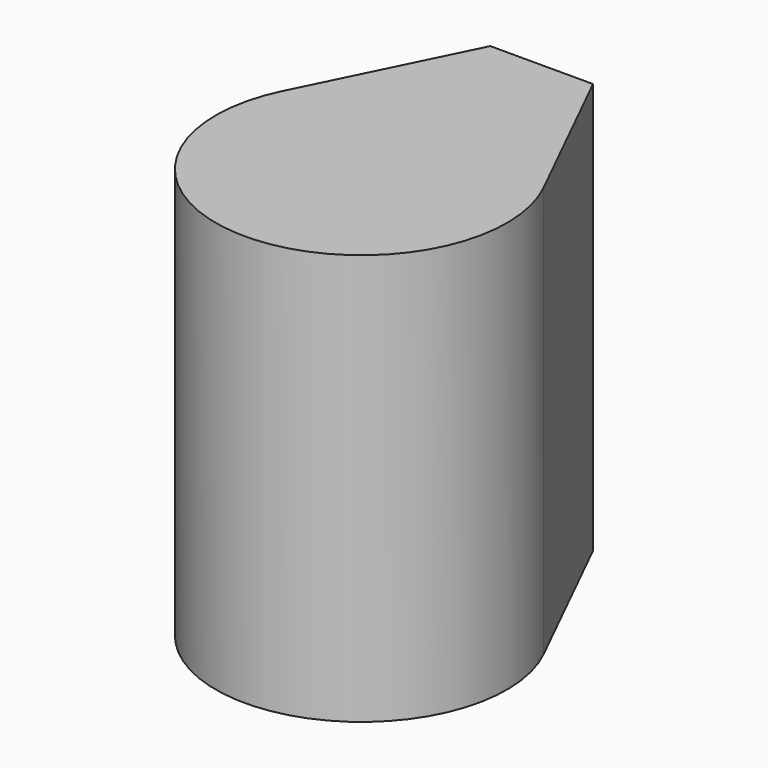
from build123d import *

# Parameters (mm, degrees)
F0_R     = 6.35
F0_W     = 6.35
F0_H     = 0.07259
F1_DEPTH = 25.4


with BuildPart() as f1:
    # F0 (on Top) → F1 (new body)
    with BuildSketch(Plane.XY):
        with BuildLine():
            Line((-3.210768, 13.8557), (-8.077002, 3.979881))
            ThreePointArc((-8.077002, 3.979881), (0, -9.0043), (8.077002, 3.979881))
            Line((8.077002, 3.979881), (3.210768, 13.8557))
            Line((3.210768, 13.8557), (3.175, 13.8557))
            Line((3.175, 13.8557), (-3.175, 13.8557))
            Line((-3.175, 13.8557), (-3.210768, 13.8557))
        make_face()
        Circle(F0_R, mode=Mode.SUBTRACT)
        Polygon((-3.175, 13.92829), (-3.210768, 13.8557), (-3.175, 13.8557), align=None)
        Polygon((3.175, 13.8557), (3.210768, 13.8557), (3.175, 13.92829), align=None)
        with Locations((0, 13.891995)):
            Rectangle(F0_W, F0_H)
        Circle(F0_R)
    extrude(amount=F1_DEPTH)


solid = f1.part
